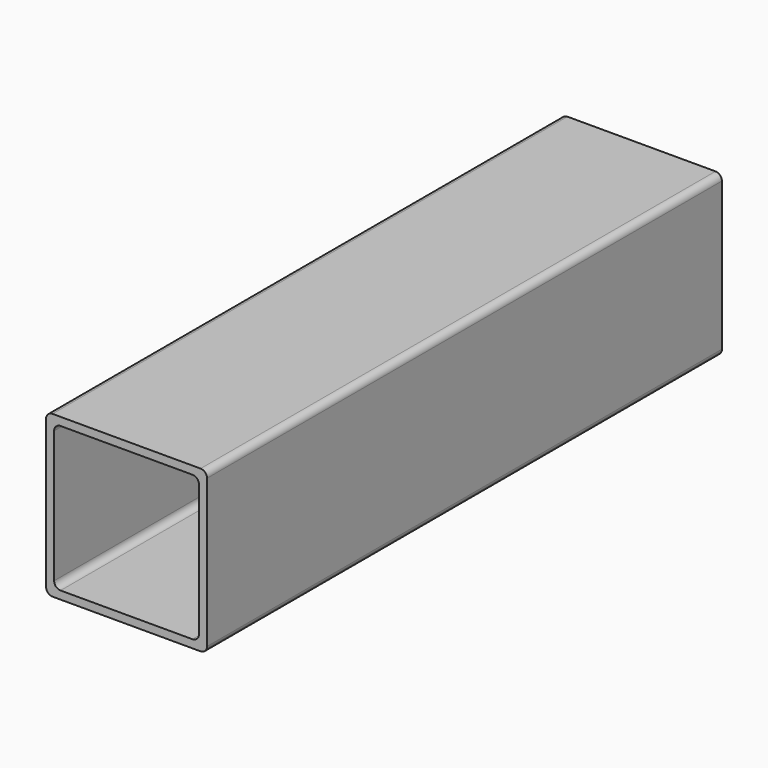
from build123d import *

# Parameters (mm, degrees)
F1_DEPTH = 100


with BuildPart() as f1:
    # F0 (on Front) → F1 (new body, symmetric)
    with BuildSketch(Plane.XZ):
        with BuildLine():
            ThreePointArc((25, 23), (24.414214, 24.414214), (23, 25))
            Line((23, 25), (-23, 25))
            ThreePointArc((-23, 25), (-24.414214, 24.414214), (-25, 23))
            Line((-25, 23), (-25, -23))
            ThreePointArc((-25, -23), (-24.414214, -24.414214), (-23, -25))
            Line((-23, -25), (23, -25))
            ThreePointArc((23, -25), (24.414214, -24.414214), (25, -23))
            Line((25, -23), (25, 23))
        make_face()
        with BuildLine():
            Line((-20.5, 22.5), (20.5, 22.5))
            ThreePointArc((20.5, 22.5), (21.914214, 21.914214), (22.5, 20.5))
            Line((22.5, 20.5), (22.5, -20.5))
            ThreePointArc((22.5, -20.5), (21.914214, -21.914214), (20.5, -22.5))
            Line((20.5, -22.5), (-20.5, -22.5))
            ThreePointArc((-20.5, -22.5), (-21.914214, -21.914214), (-22.5, -20.5))
            Line((-22.5, -20.5), (-22.5, 20.5))
            ThreePointArc((-22.5, 20.5), (-21.914214, 21.914214), (-20.5, 22.5))
        make_face(mode=Mode.SUBTRACT)
    extrude(amount=F1_DEPTH, both=True)


solid = f1.part
